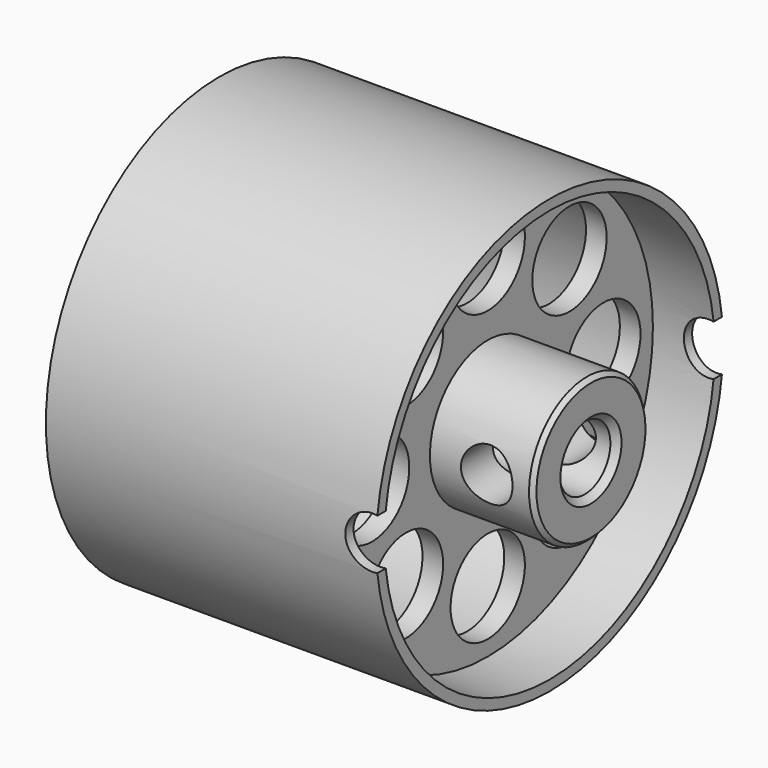
from build123d import *

# Parameters (mm, degrees)
CYLINDER039_R          = 2.25
CYLINDER039_DEPTH      = 30
ARRAY002_COUNT         = 8
CYLINDER038_R          = 1.55
CYLINDER038_DEPTH      = 30
CYLINDER045_R          = 1.25
CYLINDER045_DEPTH      = 32
CYLINDER045_ROLL_ANGLE = 90
CYLINDER043_R          = 3.5
CYLINDER043_DEPTH      = 5.5
CYLINDER042_R          = 10
CYLINDER042_DEPTH      = 16
CYLINDER037_R          = 10
CYLINDER037_DEPTH      = 16
CYLINDER036_R          = 10.5
CYLINDER036_DEPTH      = 16
CYLINDER044_R          = 2
CYLINDER044_DEPTH      = 5.5
CHAMFER062_1_SIZE      = 0.3
CHAMFER062_2_SIZE      = 0.2
CHAMFER062_3_SIZE      = 0.1
CLONE044_PITCH_ANGLE   = 90
CLONE_PLACEMENT_ANGLE  = 180


with BuildPart() as array002:
    # Cylinder039 → Cylinder039 (new body)
    with BuildSketch(Plane(origin=(7, 0, -10), x_dir=(1, 0, 0), z_dir=(0, 0, 1))):
        Circle(CYLINDER039_R)
    extrude(amount=CYLINDER039_DEPTH)

    # Array002: Array002 ×8 about axis
    array002_axis = Axis((0, 0, 0), (0, 0, 1))


with BuildPart() as array002_1:
    add(array002.part)
    for i in range(1, ARRAY002_COUNT):
        add(array002.part.rotate(array002_axis, i * 360 / ARRAY002_COUNT))


with BuildPart() as fusion033:
    # Cylinder038 → Cylinder038 (new body)
    with BuildSketch(Plane.XY.offset(-10)):
        Circle(CYLINDER038_R)
    extrude(amount=CYLINDER038_DEPTH)

    # Fusion033: union Array002
    add(array002_1.part)


with BuildPart() as cylinder045:
    # Cylinder045 → Cylinder045 (new body)
    with BuildSketch(Plane.XY):
        Circle(CYLINDER045_R)
    extrude(amount=CYLINDER045_DEPTH)


with BuildPart() as cylinder045_1:
    # Cylinder045 roll: moved
    add(cylinder045.part.rotate(Axis((0, 0, 0), (1, 0, 0)), CYLINDER045_ROLL_ANGLE))


with BuildPart() as cylinder045_2:
    # Cylinder045 placement: moved
    add(cylinder045_1.part.moved(Location((0, 15, 0.25))))


with BuildPart() as cylinder043:
    # Cylinder043 → Cylinder043 (new body)
    with BuildSketch(Plane.XY.offset(-2)):
        Circle(CYLINDER043_R)
    extrude(amount=CYLINDER043_DEPTH)


with BuildPart() as cylinder042:
    # Cylinder042 → Cylinder042 (new body)
    with BuildSketch(Plane.XY.offset(-13)):
        Circle(CYLINDER042_R)
    extrude(amount=CYLINDER042_DEPTH)


with BuildPart() as fusion034:
    # Cylinder037 → Cylinder037 (new body)
    with BuildSketch(Plane.XY.offset(4)):
        Circle(CYLINDER037_R)
    extrude(amount=CYLINDER037_DEPTH)

    # Fusion034: union Cylinder042
    add(cylinder042.part)


with BuildPart() as cut028:
    # Cylinder036 → Cylinder036 (new body)
    with BuildSketch(Plane.XY):
        Circle(CYLINDER036_R)
    extrude(amount=CYLINDER036_DEPTH)

    # Cut028: cut Fusion034
    add(fusion034.part, mode=Mode.SUBTRACT)


with BuildPart() as left_wheel:
    # Cylinder044 → Cylinder044 (new body)
    with BuildSketch(Plane.XY.offset(3.5)):
        Circle(CYLINDER044_R)
    extrude(amount=CYLINDER044_DEPTH)

    # Fusion035: union Cylinder043, Cut028
    add(cylinder043.part)
    add(cut028.part)

    # Cut002: cut Cylinder045
    add(cylinder045_2.part, mode=Mode.SUBTRACT)

    # Cut029: cut Fusion033
    add(fusion033.part, mode=Mode.SUBTRACT)

    # Chamfer062 1
    chamfer062_1_edges = [left_wheel.edges().sort_by_distance(p)[0] for p in [
        (-1.55, 0, -2),
    ]]
    chamfer(chamfer062_1_edges, length=CHAMFER062_1_SIZE)

    # Chamfer062 2
    chamfer062_2_edges = [left_wheel.edges().sort_by_distance(p)[0] for p in [
        (-3.5, 0, -2),
    ]]
    chamfer(chamfer062_2_edges, length=CHAMFER062_2_SIZE)

    # Chamfer062 3
    chamfer062_3_edges = [left_wheel.edges().sort_by_distance(p)[0] for p in [
        (-1.55, 0, 9),
    ]]
    chamfer(chamfer062_3_edges, length=CHAMFER062_3_SIZE)


with BuildPart() as left_wheel_1:
    # Clone044 pitch: moved
    add(left_wheel.part.rotate(Axis((0, 0, 0), (0, 1, 0)), CLONE044_PITCH_ANGLE))


with BuildPart() as left_wheel_2:
    # Clone044 placement: moved
    add(left_wheel_1.part.moved(Location((43, 0, 5))))


with BuildPart() as left_wheel_3:
    # Clone placement: moved
    add(left_wheel_2.part.moved(Location((0, 0, 0))).rotate(Axis((0, 0, 0), (0, 0, 1)), CLONE_PLACEMENT_ANGLE))


solid = left_wheel_3.part
